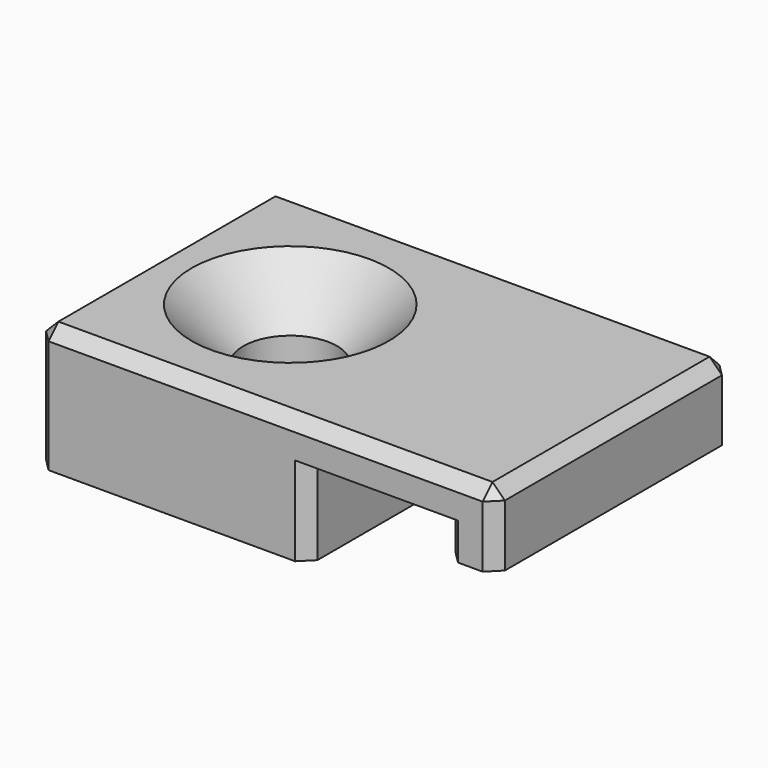
from build123d import *

# Parameters (mm, degrees)
F1_DEPTH       = 12
F4_D           = 3.8
F4_DEPTH       = 40
F4_CSINK_D     = 8
F4_CSINK_ANGLE = 90
F5_SIZE        = 0.5


with BuildPart() as f1:
    # F0 (on Front) → F1 (new body)
    with BuildSketch(Plane.XZ):
        Polygon((-11, 0), (0, 0), (0, 3.6), (5.6, 3.6), (5.6, 2.1), (7.6, 2.1), (7.6, 5.1), (-11, 5.1), align=None)
    extrude(amount=F1_DEPTH)

    # F4
    with Locations(Plane.XY.offset(5.1)):
        with Locations((-5.5, -6)):
            CounterSinkHole(F4_D / 2, F4_CSINK_D / 2, depth=F4_DEPTH, counter_sink_angle=F4_CSINK_ANGLE)

    # F5
    f5_edges = [f1.edges().sort_by_distance(p)[0] for p in [
        (-1.7, -12, 5.1),
        (7.6, -6, 5.1),
        (-1.7, 0, 5.1),
        (-11, -6, 5.1),
        (-11, -12, 2.55),
        (-11, 0, 2.55),
        (7.6, 0, 3.6),
        (7.6, -12, 3.6),
        (0, -12, 1.8),
        (5.6, -12, 2.85),
        (0, 0, 1.8),
        (5.6, 0, 2.85),
    ]]
    chamfer(f5_edges, length=F5_SIZE)


solid = f1.part
